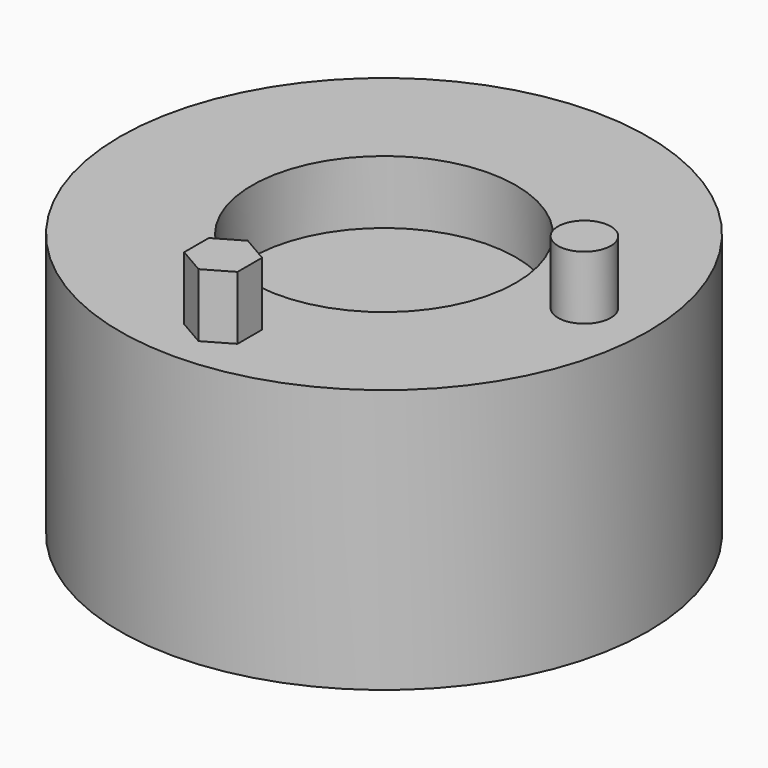
from build123d import *

# Parameters (mm, degrees)
F0_R     = 5
F1_DEPTH = 5
F2_R     = 0.5
F3_DEPTH = 1.2
F2_R_2   = 2.5
F4_DEPTH = 1.2


with BuildPart() as f1:
    # F0 (on Top) → F1 (new body)
    with BuildSketch(Plane.XY):
        with Locations((-10.536088, 0)):
            Circle(F0_R)
    extrude(amount=F1_DEPTH)

    # F2 (on face) → F3 (join)
    with BuildSketch(Plane.XY.offset(5)):
        with Locations((-6.740328, 0)):
            Circle(F2_R)
        Polygon((-10.031058, -4.099747), (-10.031058, -3.516589), (-10.536088, -3.22501), (-11.041118, -3.516589), (-11.041118, -4.099747), (-10.536088, -4.391326), align=None)
    extrude(amount=F3_DEPTH)

    # F2 (on face) → F4 (cut)
    with BuildSketch(Plane.XY.offset(5)):
        with Locations((-10.536088, 0)):
            Circle(F2_R_2)
    extrude(amount=-F4_DEPTH, mode=Mode.SUBTRACT)


solid = f1.part
